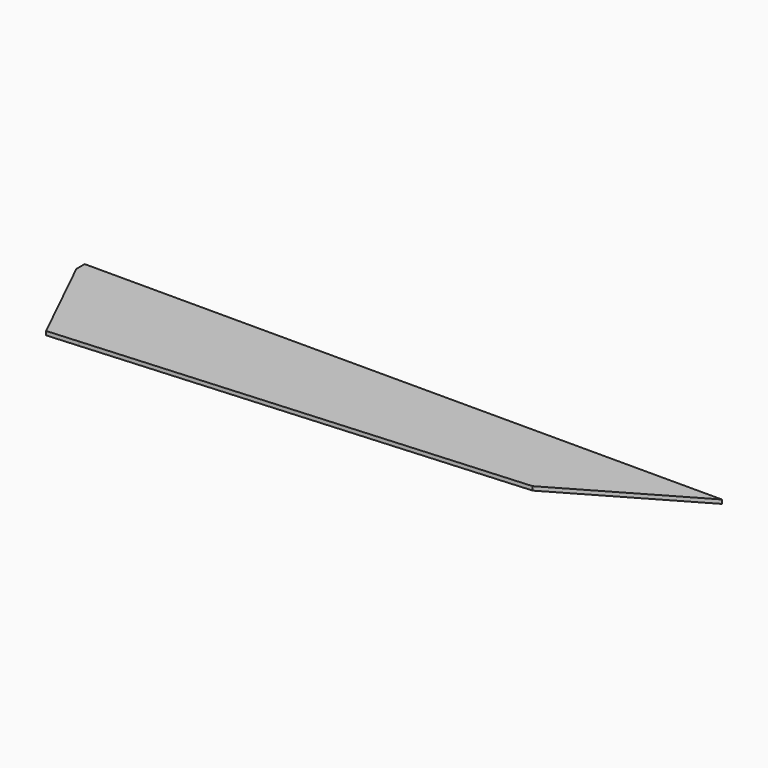
from build123d import *

# Parameters (mm, degrees)
F1_DEPTH = 3.175


with BuildPart() as f1:
    # F0 (on Top) → F1 (new body)
    with BuildSketch(Plane.XY):
        Polygon((478.9166121058, 86.9143003725), (-38.2173569188, 86.9143003725), (-38.2173569188, 78.5005169143), (-12.3104741549, 47.2268003725), (410.1758456804, 47.2268003725), align=None)
        Polygon((-38.2173569188, 78.5005169143), (-22.9919949182, 47.2268003725), (-12.3104741549, 47.2268003725), align=None)
        Polygon((-12.3104741549, 47.2268003725), (-22.9919949182, 47.2268003725), (0, 0), (25.337579244, 1.7796286275), align=None)
        Polygon((410.1758456804, 47.2268003725), (-12.3104741549, 47.2268003725), (25.337579244, 1.7796286275), (373.8577628981, 26.2585455017), align=None)
    extrude(amount=F1_DEPTH)


solid = f1.part
